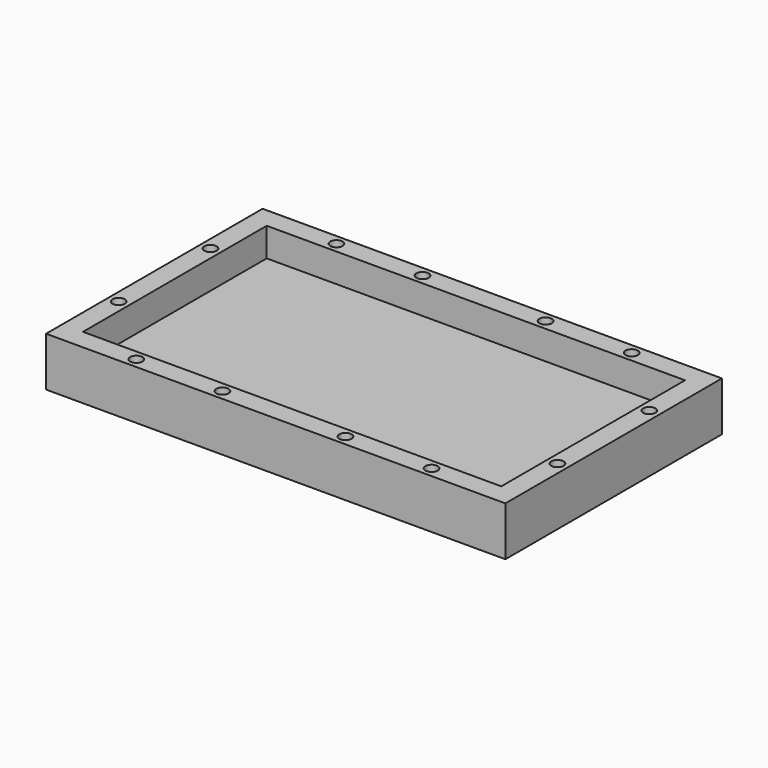
from build123d import *

# Parameters (mm, degrees)
F0_W     = 112
F0_H     = 66
F1_DEPTH = 12
F2_T     = -5
F3_R     = 1.5
F4_DEPTH = 6.25


with BuildPart() as f1:
    # F0 (on Top) → F1 (new body)
    with BuildSketch(Plane.XY):
        Rectangle(F0_W, F0_H)
    extrude(amount=F1_DEPTH)

    # F2
    f2_openings = [f1.faces().sort_by_distance(p)[0] for p in [
        (0, 0, 12),
    ]]
    offset(amount=F2_T, openings=f2_openings)

    # F3 (on face) → F4 (cut)
    with BuildSketch(Plane.XY.offset(12)):
        with Locations((-53.5, 14)):
            Circle(F3_R)
        with Locations((-53.5, -14)):
            Circle(F3_R)
        with Locations((-36, 30.5)):
            Circle(F3_R)
        with Locations((-15, 30.5)):
            Circle(F3_R)
        with Locations((15, 30.5)):
            Circle(F3_R)
        with Locations((36, 30.5)):
            Circle(F3_R)
        with Locations((53.5, 14)):
            Circle(F3_R)
        with Locations((53.5, -14)):
            Circle(F3_R)
        with Locations((36, -30.5)):
            Circle(F3_R)
        with Locations((15, -30.5)):
            Circle(F3_R)
        with Locations((-15, -30.5)):
            Circle(F3_R)
        with Locations((-36, -30.5)):
            Circle(F3_R)
    extrude(amount=-F4_DEPTH, mode=Mode.SUBTRACT)


solid = f1.part
